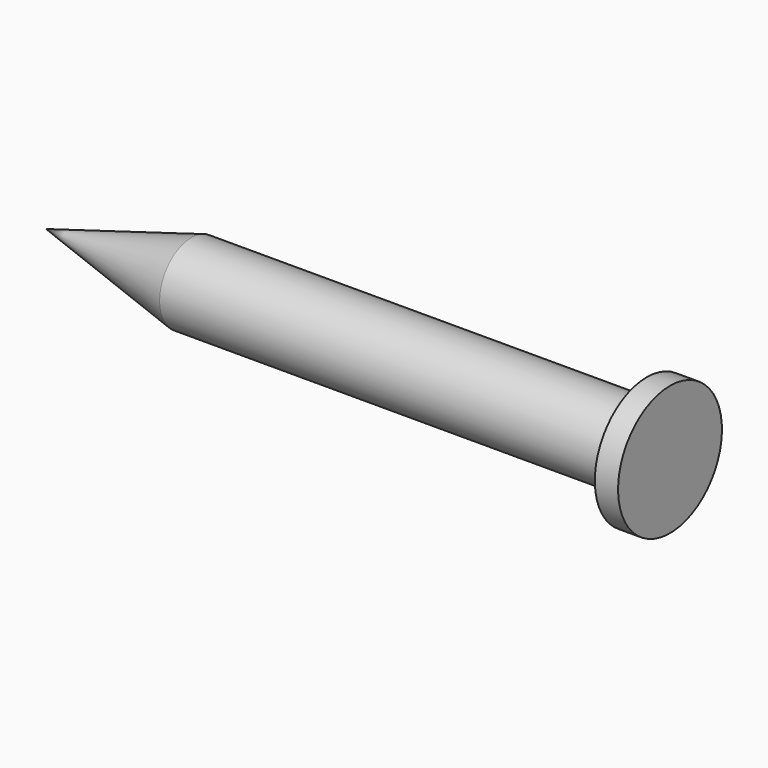
from build123d import *

# Parameters (mm, degrees)
F0_W = 70.0273737311
F0_H = 6.1087710783


with BuildPart() as f1:
    # F0 (on Front) → F1 (revolve)
    with BuildSketch(Plane.XZ):
        with Locations((9.6846371889, 3.0543855391)):
            Rectangle(F0_W, F0_H)
        Polygon((-25.3290496767, 0), (-25.3290496767, 6.1087710783), (-47.6782135665, 0), align=None)
        Polygon((44.6983240545, 9.9826259539), (44.6983240545, 6.1087710783), (44.6983240545, 0), (48.2741892338, 0), (48.2741892338, 9.9826259539), align=None)
    revolve(axis=Axis((9.6846371889, 0, 0), (1, 0, 0)))


solid = f1.part
